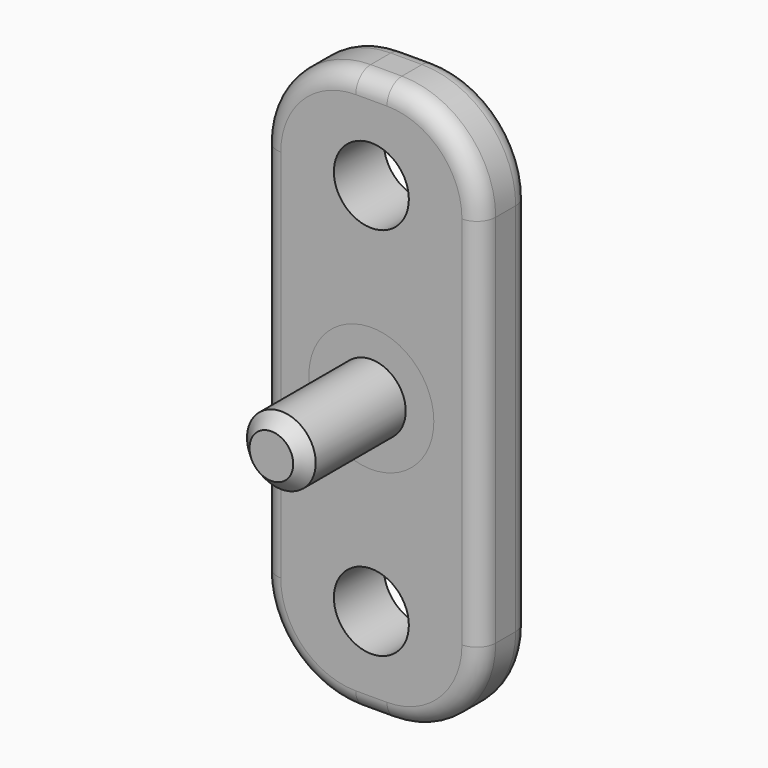
from build123d import *

# Parameters (mm, degrees)
F0_R     = 6
F1_DEPTH = 5
F2_R     = 3
F3_R     = 3
F4_R     = 10
F4_R_2   = 5.5
F5_DEPTH = 5
F6_DEPTH = 25
F7_SIZE  = 2
F8_R     = 2


with BuildPart() as f1:
    # F0 (on Front) → F1 (new body, symmetric)
    with BuildSketch(Plane.XZ):
        with BuildLine():
            ThreePointArc((17.5, 30), (13.106602, 40.606602), (2.5, 45))
            Line((2.5, 45), (-2.5, 45))
            ThreePointArc((-2.5, 45), (-13.106602, 40.606602), (-17.5, 30))
            Line((-17.5, 30), (-17.5, -30))
            ThreePointArc((-17.5, -30), (-13.106602, -40.606602), (-2.5, -45))
            Line((-2.5, -45), (2.5, -45))
            ThreePointArc((2.5, -45), (13.106602, -40.606602), (17.5, -30))
            Line((17.5, -30), (17.5, 30))
        make_face()
        with Locations((0, -30)):
            Circle(F0_R, mode=Mode.SUBTRACT)
        Circle(F0_R, mode=Mode.SUBTRACT)
        with Locations((0, 30)):
            Circle(F0_R, mode=Mode.SUBTRACT)
    extrude(amount=F1_DEPTH, both=True)

    # F2
    f2_edges = [f1.edges().sort_by_distance(p)[0] for p in [
        (17.5, -5, 0),
    ]]
    fillet(f2_edges, radius=F2_R)

    # F3
    f3_edges = [f1.edges().sort_by_distance(p)[0] for p in [
        (17.5, 5, 0),
    ]]
    fillet(f3_edges, radius=F3_R)


with BuildPart() as f5:
    # F4 (on Front) → F5 (new body)
    with BuildSketch(Plane.XZ):
        Circle(F4_R)
        Circle(F4_R_2, mode=Mode.SUBTRACT)
    extrude(amount=F5_DEPTH)

    # F4 (on Front) → F6 (join)
    with BuildSketch(Plane.XZ):
        Circle(F4_R_2)
    extrude(amount=F6_DEPTH)

    # F7
    f7_edges = [f5.edges().sort_by_distance(p)[0] for p in [
        (-5.5, -25, 0),
    ]]
    chamfer(f7_edges, length=F7_SIZE)

    # F8
    f8_edges = [f5.edges().sort_by_distance(p)[0] for p in [
        (-10, 0, 0),
    ]]
    fillet(f8_edges, radius=F8_R)


solid = Compound([f1.part, f5.part])
